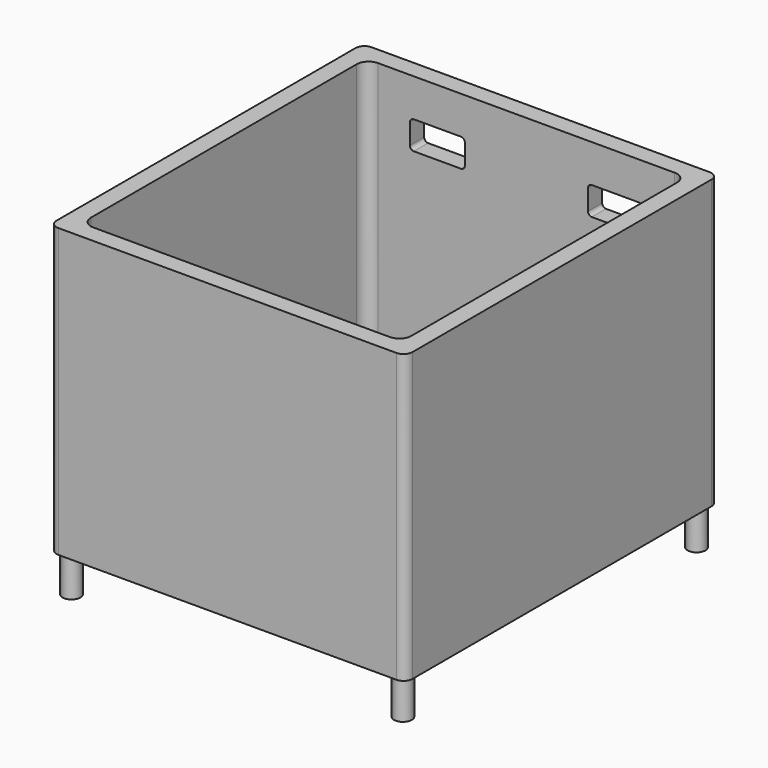
from build123d import *

# Parameters (mm, degrees)
SKETCH005_W     = 12
SKETCH005_H     = 13.2
SKETCH005_W_2   = 10.8
SKETCH005_H_2   = 12
PAD003_DEPTH    = 9.7
FILLET005_R     = 0.3
FILLET006_R     = 0.4
SKETCH006_W     = 1.85
SKETCH006_H     = 0.95
POCKET002_DEPTH = 0.6
FILLET007_R     = 0.13
SKETCH007_R     = 0.3
PAD004_DEPTH    = 1.3
FILLET008_R     = 0.1


with BuildPart() as part:
    # Sketch005 → Pad003 (new body)
    with BuildSketch(Plane.XY):
        with Locations((0, -1.1)):
            Rectangle(SKETCH005_W, SKETCH005_H)
        with Locations((0, -1.1)):
            Rectangle(SKETCH005_W_2, SKETCH005_H_2, mode=Mode.SUBTRACT)
    extrude(amount=PAD003_DEPTH)

    # Fillet005
    fillet005_edges = [part.edges().sort_by_distance(p)[0] for p in [
        (-6, 5.5, 4.85),
        (-6, -7.7, 4.85),
        (6, -7.7, 4.85),
        (6, 5.5, 4.85),
    ]]
    fillet(fillet005_edges, radius=FILLET005_R)

    # Fillet006
    fillet006_edges = [part.edges().sort_by_distance(p)[0] for p in [
        (-5.4, -7.1, 4.85),
        (-5.4, 4.9, 4.85),
        (5.4, -7.1, 4.85),
        (5.4, 4.9, 4.85),
    ]]
    fillet(fillet006_edges, radius=FILLET006_R)

    # Sketch006 (on Face10 of Fillet006) → Pocket002 (cut)
    with BuildSketch(Plane(origin=(0, 5.5, 0), x_dir=(-1, 0, 0), z_dir=(0, 1, 0))):
        with Locations((-3, 7.95)):
            Rectangle(SKETCH006_W, SKETCH006_H)
    pocket002 = extrude(amount=-POCKET002_DEPTH, mode=Mode.SUBTRACT)

    # Mirrored001: Pocket002 across Sketch006 V_Axis
    add(pocket002.mirror(Plane(origin=(0, 5.5, 0), x_dir=(0, 1, 0), z_dir=(-1, 0, 0))), mode=Mode.SUBTRACT)

    # Fillet007
    fillet007_edges = [part.edges().sort_by_distance(p)[0] for p in [
        (2.075, 5.2, 8.425),
        (2.075, 5.2, 7.475),
        (-3.925, 5.2, 7.475),
        (-3.925, 5.2, 8.425),
        (-2.075, 5.2, 8.425),
        (-2.075, 5.2, 7.475),
        (3.925, 5.2, 7.475),
        (3.925, 5.2, 8.425),
    ]]
    fillet(fillet007_edges, radius=FILLET007_R)

    # Sketch007 (on Face10 of Fillet007) → Pad004 (join)
    with BuildSketch(Plane(origin=(0, 0, 0), x_dir=(1, 0, 0), z_dir=(0, 0, -1))):
        with Locations((-5.586863, 7.286863)):
            Circle(SKETCH007_R)
        with Locations((5.586863, 7.286863)):
            Circle(SKETCH007_R)
        with Locations((-5.586863, -5.086863)):
            Circle(SKETCH007_R)
        with Locations((5.586863, -5.086863)):
            Circle(SKETCH007_R)
    extrude(amount=PAD004_DEPTH)

    # Fillet008
    fillet008_edges = [part.edges().sort_by_distance(p)[0] for p in [
        (5.286863, 5.086863, 0),
        (-5.886863, 5.086863, 0),
        (-5.886863, -7.286863, 0),
        (5.286863, -7.286863, 0),
    ]]
    fillet(fillet008_edges, radius=FILLET008_R)


solid = part.part
